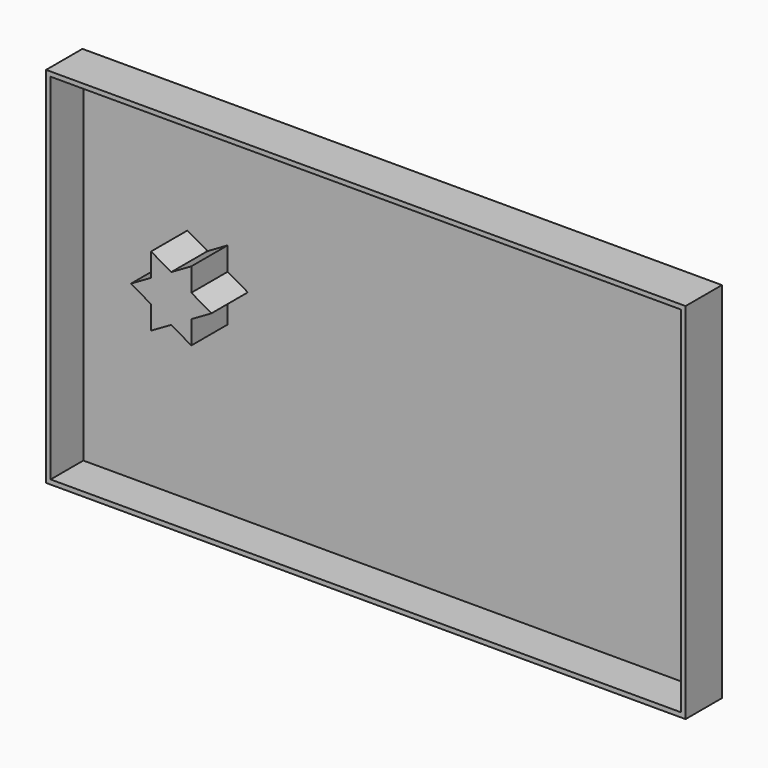
from build123d import *

# Parameters (mm, degrees)
F0_W     = 351.6883096945
F0_H     = 200
F1_DEPTH = 25
F2_T     = -2.5
F4_DEPTH = 25


with BuildPart() as f1:
    # F0 (on Front) → F1 (new body)
    with BuildSketch(Plane.XZ):
        with Locations((-175.8441548473, 100)):
            Rectangle(F0_W, F0_H)
    extrude(amount=F1_DEPTH)

    # F2
    f2_openings = [f1.faces().sort_by_distance(p)[0] for p in [
        (-175.844155, -25, 100),
    ]]
    offset(amount=F2_T, openings=f2_openings)

    # F3 (on face) → F4 (join)
    with BuildSketch(Plane.XZ.offset(2.5)):
        Polygon((-291.9401824474, 119.7359256967), (-280.8749377728, 126.1244476883), (-291.9401824474, 132.5129696799), align=None)
        Polygon((-269.8096930981, 106.9588817135), (-269.8096930981, 119.7359256967), (-280.8749377728, 126.1244476883), (-291.9401824474, 119.7359256967), (-291.9401824474, 106.9588817135), (-280.8749377728, 100.570359722), align=None)
        Polygon((-269.8096930981, 119.7359256967), (-269.8096930981, 132.5129696799), (-280.8749377728, 126.1244476883), align=None)
        Polygon((-269.8096930981, 94.1818377304), (-269.8096930981, 106.9588817135), (-280.8749377728, 100.570359722), align=None)
        Polygon((-291.9401824474, 94.1818377304), (-280.8749377728, 100.570359722), (-291.9401824474, 106.9588817135), align=None)
        Polygon((-291.9401824474, 106.9588817135), (-291.9401824474, 119.7359256967), (-303.0054271221, 113.3474037051), align=None)
        Polygon((-258.7444484234, 113.3474037051), (-269.8096930981, 119.7359256967), (-269.8096930981, 106.9588817135), align=None)
    extrude(amount=F4_DEPTH)


solid = f1.part
